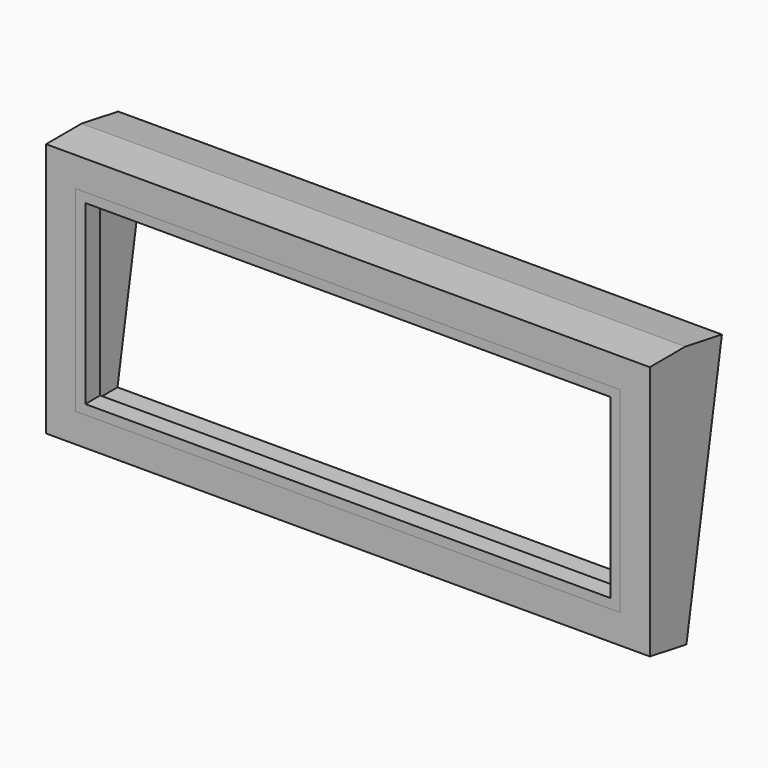
from build123d import *

# Parameters (mm, degrees)
F2_DEPTH      = 165.1
F2_DEPTH_BACK = 165.1
F3_W          = 330.2
F3_H          = 141.4554488717
F4_DEPTH      = 25.4
F0_W          = 297.7512968
F0_H          = 107.2502808
F0_W_2        = 287.2877287
F0_H_2        = 96.8048356
F5_DEPTH      = 49.284363677
F6_DEPTH      = 10.16
F7_DEPTH      = 49.284363677


with BuildPart() as f2:
    # F1 (on Right) → F2 (new body, two sides)
    with BuildSketch(Plane.YZ) as f2_sk:
        Polygon((0, 69.7549134493), (0, -69.5518404245), (24.2596895352, 69.807807534), align=None)
    extrude(amount=F2_DEPTH)
    extrude(f2_sk.sketch, amount=-F2_DEPTH_BACK)

    # F3 (on face) → F4 (join)
    with BuildSketch(Plane(origin=(0, 11.7514523339, -2.0456896195), x_dir=(-1, 0, 0), z_dir=(0, 0.9851840213, -0.1715005659))):
        with Locations((0, 2.2063625954)):
            Rectangle(F3_W, F3_H)
    extrude(amount=F4_DEPTH)

    # F0 (on Front) → F5 (cut, through all)
    with BuildSketch(Plane.XZ):
        Rectangle(F0_W, F0_H)
        Rectangle(F0_W_2, F0_H_2, mode=Mode.SUBTRACT)
    extrude(amount=-F5_DEPTH, mode=Mode.SUBTRACT)

    # F0 (on Front) → F7 (cut, through all)
    with BuildSketch(Plane.XZ):
        Rectangle(F0_W_2, F0_H_2)
    extrude(amount=-F7_DEPTH, mode=Mode.SUBTRACT)


with BuildPart() as f6:
    # F0 (on Front) → F6 (new body)
    with BuildSketch(Plane.XZ):
        Rectangle(F0_W, F0_H)
        Rectangle(F0_W_2, F0_H_2, mode=Mode.SUBTRACT)
    extrude(amount=-F6_DEPTH)


solid = Compound([f2.part, f6.part])
